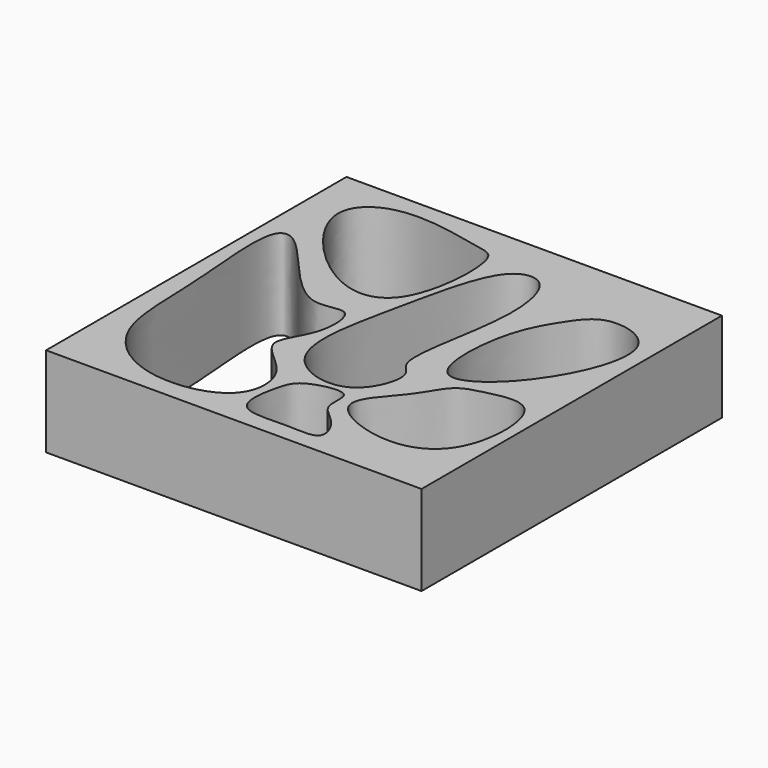
from build123d import *

# Parameters (mm, degrees)
F0_W      = 25.0568166375
F0_H      = 25.0568189658
F1_DEPTH  = 6
F3_DEPTH  = 25
F5_DEPTH  = 25
F7_DEPTH  = 25
F9_DEPTH  = 25
F11_DEPTH = 25
F13_DEPTH = 25


with BuildPart() as f1:
    # F0 (on Top) → F1 (new body)
    with BuildSketch(Plane.XY):
        with Locations((-43.7002852559, 8.203125326)):
            Rectangle(F0_W, F0_H)
    extrude(amount=F1_DEPTH)

    # F2 (on face) → F3 (cut)
    with BuildSketch(Plane.XY.offset(6)):
        with BuildLine():
            add(Edge.make_bspline(
                [(-35.4225896299, 16.5553987026), (-36.237230196, 16.3682121509), (-37.2569345247, 14.9556951883), (-38.9651640435, 12.1047710139), (-39.1581950986, 5.1620480272), (-34.1188315181, 8.1160613114), (-30.7187337932, 15.7889937467), (-34.4497972417, 16.7789250776), (-35.4225896299, 16.5553987026)],
                knots=[0, 0, 0, 0, 0.1244311477, 0.2825935059, 0.467335472, 0.628969104, 0.8514121707, 1, 1, 1, 1], degree=3))
        make_face()
    extrude(amount=-F3_DEPTH, mode=Mode.SUBTRACT)

    # F4 (on face) → F5 (cut)
    with BuildSketch(Plane.XY.offset(6)):
        with BuildLine():
            add(Edge.make_bspline(
                [(-41.0156287253, 17.7485812455), (-40.2113485805, 17.1729762253), (-39.396292188, 13.3665833581), (-41.4522145908, 6.1303259013), (-39.3700148834, 5.4157343669), (-40.7716410283, 1.1948075876), (-46.7888041243, 2.853530202), (-44.9168450271, 10.7348889857), (-43.554831174, 17.8936375766), (-41.5170933037, 18.1074680472), (-41.0156287253, 17.7485812455)],
                knots=[0, 0, 0, 0, 0.1282762899, 0.2905005213, 0.3626355275, 0.470320326, 0.5921865387, 0.7582703299, 0.9200203859, 1, 1, 1, 1], degree=3))
        make_face()
    extrude(amount=-F5_DEPTH, mode=Mode.SUBTRACT)

    # F6 (on face) → F7 (cut)
    with BuildSketch(Plane.XY.offset(6)):
        with BuildLine():
            add(Edge.make_bspline(
                [(-36.9886383414, 5.5930400267), (-37.4691975651, 5.1581585056), (-38.1444498747, 3.510235901), (-41.4903204207, 0.5628812105), (-36.0625649321, -1.8301268689), (-31.6756871939, 0.0016930137), (-31.7342812941, 7.1606753533), (-35.4053473819, 6.248057984), (-36.5808803896, 5.9620401201), (-36.9886383414, 5.5930400267)],
                knots=[0, 0, 0, 0, 0.1230701722, 0.2635988836, 0.4243915501, 0.5864476372, 0.766961888, 0.8955740752, 1, 1, 1, 1], degree=3))
        make_face()
    extrude(amount=-F7_DEPTH, mode=Mode.SUBTRACT)

    # F8 (on face) → F9 (cut)
    with BuildSketch(Plane.XY.offset(6)):
        with BuildLine():
            add(Edge.make_bspline(
                [(-46.0120774806, 18.8671890646), (-47.3239206959, 19.1373935082), (-51.6634595011, 20.284462844), (-55.5953536745, 17.1642049363), (-49.5949043527, 10.4769027469), (-44.566461775, 10.9333892769), (-44.2072022412, 18.6095050617), (-45.3412502759, 18.7290166905), (-46.0120774806, 18.8671890646)],
                knots=[0, 0, 0, 0, 0.1887516516, 0.3338197866, 0.5512915559, 0.7059456528, 0.9034795154, 1, 1, 1, 1], degree=3))
        make_face()
    extrude(amount=-F9_DEPTH, mode=Mode.SUBTRACT)

    # F10 (on face) → F11 (cut)
    with BuildSketch(Plane.XY.offset(6)):
        with BuildLine():
            add(Edge.make_bspline(
                [(-53.9914816618, 13.4978694841), (-52.7216909981, 12.6216203485), (-49.4882761452, 7.5222342993), (-46.321042421, 9.5979084684), (-46.1377113276, 5.8554858749), (-48.4007619675, 3.4988386355), (-44.7034279112, 1.6004921625), (-44.7425550573, -2.6630994214), (-50.744157018, -3.6440904609), (-55.1347395788, -0.1678333984), (-54.7417588422, 6.0730531891), (-55.845988231, 13.7371145879), (-54.5048656399, 13.8521422631), (-53.9914816618, 13.4978694841)],
                knots=[0, 0, 0, 0, 0.1213323857, 0.1906496426, 0.2656371068, 0.3406093627, 0.4231104217, 0.505151325, 0.6090740277, 0.7104503961, 0.8289294103, 0.950944589, 1, 1, 1, 1], degree=3))
        make_face()
    extrude(amount=-F11_DEPTH, mode=Mode.SUBTRACT)

    # F12 (on face) → F13 (cut)
    with BuildSketch(Plane.XY.offset(6)):
        with BuildLine():
            add(Edge.make_bspline(
                [(-41.1647744477, -3.1321025454), (-42.3309185398, -3.1253567439), (-44.8886720725, -3.4745338072), (-44.1806503987, 0.1507175048), (-43.6640635478, 1.3193427277), (-40.3982392816, 2.082351138), (-41.2076531735, -0.2887069181), (-39.388990354, -1.1524048672), (-38.5751641988, -3.3897527984), (-40.1917484963, -3.1377312151), (-41.1647744477, -3.1321025454)],
                knots=[0, 0, 0, 0, 0.1522236631, 0.2958346043, 0.401302828, 0.5351193698, 0.642757745, 0.7636127782, 0.8729851863, 1, 1, 1, 1], degree=3))
        make_face()
    extrude(amount=-F13_DEPTH, mode=Mode.SUBTRACT)


solid = f1.part
